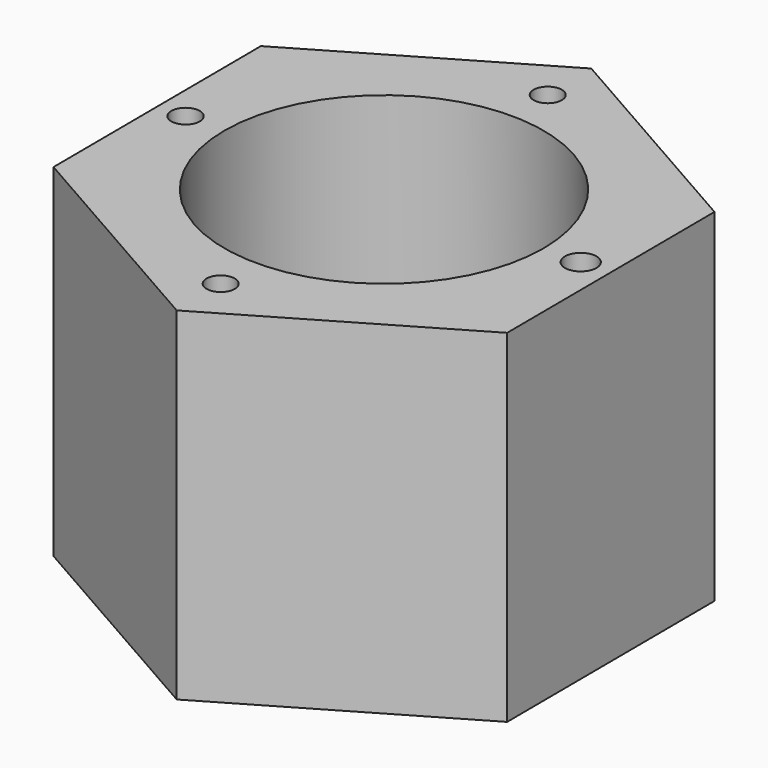
from build123d import *

# Parameters (mm, degrees)
F1_DEPTH = 77.216
F2_R     = 35.955946
F3_DEPTH = 87.884
F4_R     = 3.205496
F4_R_2   = 3.551228
F4_R_3   = 3.174776
F4_R_4   = 3.174773
F5_DEPTH = 95.504


with BuildPart() as f1:
    # F0 (on Top) → F1 (new body)
    with BuildSketch(Plane.XY):
        Polygon((0.305662, -58.799351), (51.074563, -29.134964), (50.768901, 29.664386), (-0.305662, 58.799351), (-51.074563, 29.134964), (-50.768901, -29.664386), align=None)
    extrude(amount=F1_DEPTH)

    # F2 (on Top) → F3 (cut)
    with BuildSketch(Plane.XY):
        Circle(F2_R)
    extrude(amount=F3_DEPTH, mode=Mode.SUBTRACT)

    # F4 (on Top) → F5 (cut)
    with BuildSketch(Plane.XY):
        with Locations((-44.734024, 0)):
            Circle(F4_R)
        with Locations((44.350594, 0)):
            Circle(F4_R_2)
        with Locations((0, 46.139952)):
            Circle(F4_R_3)
        with Locations((0, -46.012141)):
            Circle(F4_R_4)
    extrude(amount=F5_DEPTH, mode=Mode.SUBTRACT)


solid = f1.part
